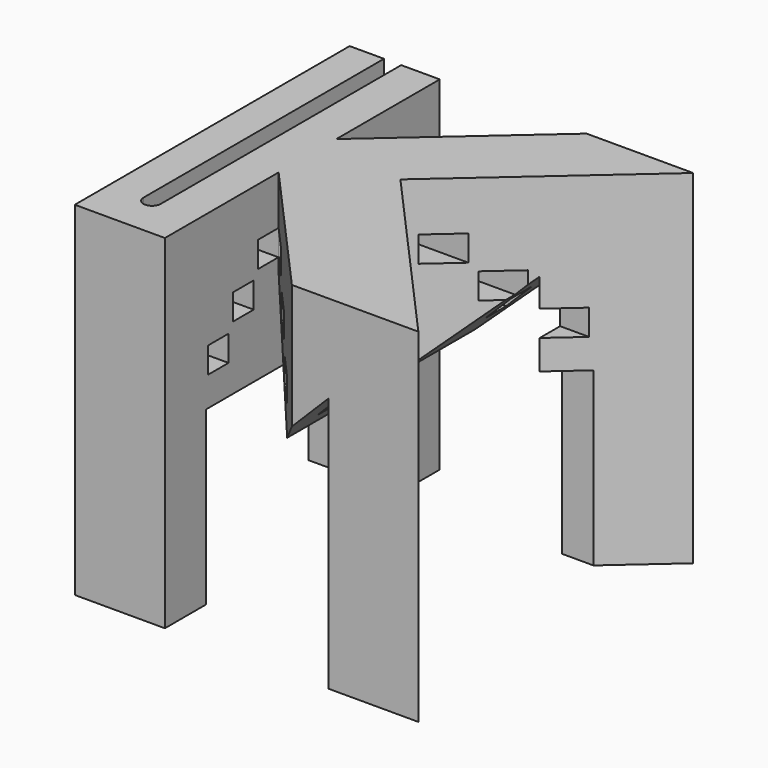
from build123d import *

# Parameters (mm, degrees)
F1_DEPTH = 40
F2_W     = 28
F2_H     = 20
F3_DEPTH = 40
F5_DEPTH = 40
F2_W_2   = 3
F2_H_2   = 3
F6_DEPTH = 40


with BuildPart() as f1:
    # F0 (on Top) → F1 (new body)
    with BuildSketch(Plane.XY):
        Polygon((0, 2.385549), (20, 20), (7.583665, 20), (-9.509563, 4.945609), (-9.509563, -3.451516), (5.275408, -20), (20, -20), align=None)
        with BuildLine():
            Line((-9.509563, 4.945609), (-9.509563, 20))
            Line((-9.509563, 20), (-14, 20))
            Line((-14, 20), (-14, -15))
            ThreePointArc((-14, -15), (-15, -16), (-16, -15))
            Line((-16, -15), (-16, 20))
            Line((-16, 20), (-20, 20))
            Line((-20, 20), (-20, -20))
            Line((-20, -20), (-9.509563, -20))
            Line((-9.509563, -20), (-9.509563, -3.451516))
            Line((-9.509563, -3.451516), (-9.509563, 4.945609))
        make_face()
        with BuildLine():
            Line((-9.509563, 4.945609), (-9.509563, 20))
            Line((-9.509563, 20), (-14, 20))
            Line((-14, 20), (-14, -15))
            ThreePointArc((-14, -15), (-15, -16), (-16, -15))
            Line((-16, -15), (-16, 20))
            Line((-16, 20), (-20, 20))
            Line((-20, 20), (-20, -20))
            Line((-20, -20), (-9.509563, -20))
            Line((-9.509563, -20), (-9.509563, -3.451516))
            Line((-9.509563, -3.451516), (-9.509563, 4.945609))
        make_face()
    extrude(amount=F1_DEPTH)

    # F2 (on face) → F3 (cut)
    with BuildSketch(Plane(origin=(-20, 0, 0), x_dir=(0, -1, 0), z_dir=(-1, 0, 0))):
        with Locations((0, 10)):
            Rectangle(F2_W, F2_H)
    extrude(amount=-F3_DEPTH, mode=Mode.SUBTRACT)

    # F4 (on face) → F5 (cut)
    with BuildSketch(Plane.XZ.offset(20)):
        Polygon((9.509967, 29.723961), (0, 20.214196), (-9.509563, 29.723961), (-9.509563, 0), (9.509967, 0), align=None)
    extrude(amount=-F5_DEPTH, mode=Mode.SUBTRACT)

    # F2 (on face) → F6 (cut)
    with BuildSketch(Plane(origin=(-20, 0, 0), x_dir=(0, -1, 0), z_dir=(-1, 0, 0))):
        with Locations((-4.974076, 32.809951)):
            Rectangle(F2_W_2, F2_H_2)
        with Locations((4.974076, 32.809951)):
            Rectangle(F2_W_2, F2_H_2)
        with Locations((-8.575957, 28.904985)):
            Rectangle(F2_W_2, F2_H_2)
        with Locations((-12.238311, 24.934458)):
            Rectangle(F2_W_2, F2_H_2)
        with Locations((8.575957, 28.904985)):
            Rectangle(F2_W_2, F2_H_2)
        with Locations((12.238311, 24.934458)):
            Rectangle(F2_W_2, F2_H_2)
    extrude(amount=-F6_DEPTH, mode=Mode.SUBTRACT)


solid = f1.part
